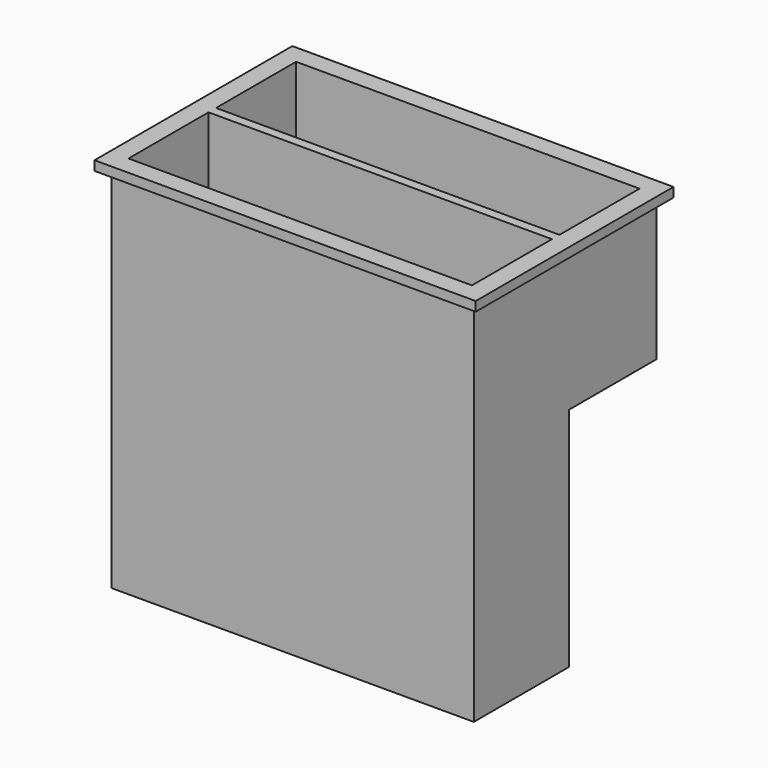
from build123d import *

# Parameters (mm, degrees)
F0_W     = 182
F0_H     = 53
F1_DEPTH = 200
F2_DEPTH = 80
F3_W     = 182
F3_H     = 53
F4_DEPTH = 5
F0_W_2   = 202
F0_H_2   = 131
F5_DEPTH = 5


with BuildPart() as f1:
    # F0 (on Top) → F1 (new body)
    with BuildSketch(Plane.XY):
        Polygon((81.89805, -3.570612), (-100.10195, -3.570612), (-105.10195, -3.570612), (-105.10195, -66.570612), (86.89805, -66.570612), (86.89805, -3.570612), align=None)
        with Locations((-9.10195, -35.070612)):
            Rectangle(F0_W, F0_H, mode=Mode.SUBTRACT)
    extrude(amount=-F1_DEPTH)

    # F0 (on Top) → F2 (join)
    with BuildSketch(Plane.XY):
        Polygon((-100.10195, -3.570612), (-100.10195, 49.429388), (81.89805, 49.429388), (81.89805, -3.570612), (86.89805, -3.570612), (86.89805, 54.429388), (-105.10195, 54.429388), (-105.10195, -3.570612), align=None)
    extrude(amount=-F2_DEPTH)

    # F3 (on face) → F4 (join)
    with BuildSketch(Plane(origin=(0, 0, -200), x_dir=(1, 0, 0), z_dir=(0, 0, -1))):
        with Locations((-9.10195, 35.070612)):
            Rectangle(F3_W, F3_H)
    extrude(amount=-F4_DEPTH)

    # F0 (on Top) → F5 (join)
    with BuildSketch(Plane.XY):
        with Locations((-9.10195, -6.070612)):
            Rectangle(F0_W_2, F0_H_2)
        Polygon((-105.10195, -66.570612), (-105.10195, -3.570612), (-105.10195, 54.429388), (86.89805, 54.429388), (86.89805, -3.570612), (86.89805, -66.570612), align=None, mode=Mode.SUBTRACT)
    extrude(amount=-F5_DEPTH)


solid = f1.part
